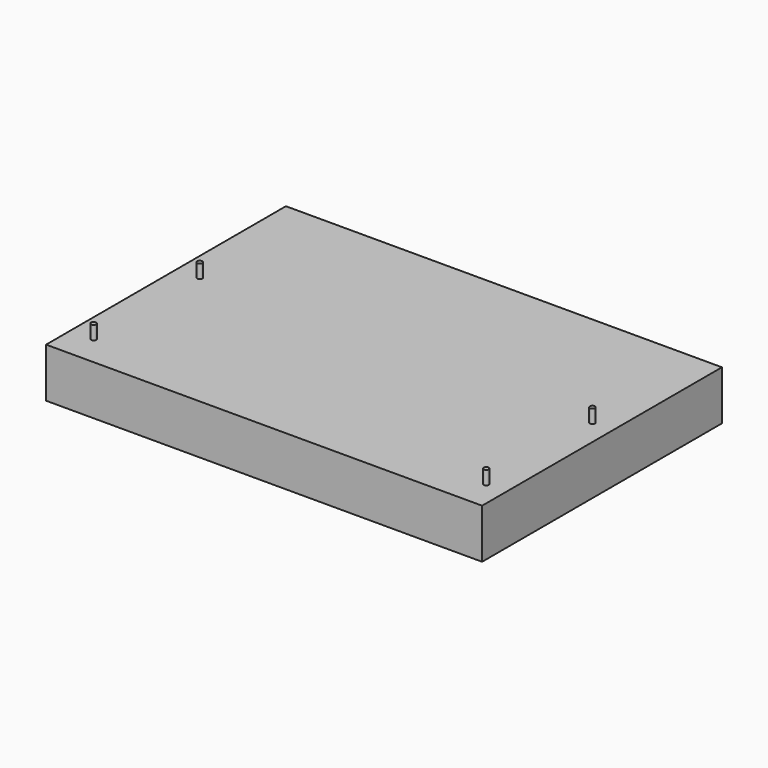
from build123d import *

# Parameters (mm, degrees)
F0_W     = 812.8
F0_H     = 558.8
F1_DEPTH = 92.075
F2_R     = 4.7625
F3_DEPTH = 25.4


with BuildPart() as f1:
    # F0 (on Top) → F1 (new body)
    with BuildSketch(Plane.XY):
        Rectangle(F0_W, F0_H)
    extrude(amount=F1_DEPTH)

    # F2 (on face) → F3 (join)
    with BuildSketch(Plane.XY.offset(92.075)):
        with Locations((-363.5375, 25.4)):
            Circle(F2_R)
        with Locations((-363.5375, -222.25)):
            Circle(F2_R)
        with Locations((368.3, 25.4)):
            Circle(F2_R)
        with Locations((368.3, -222.25)):
            Circle(F2_R)
    extrude(amount=F3_DEPTH)


solid = f1.part
